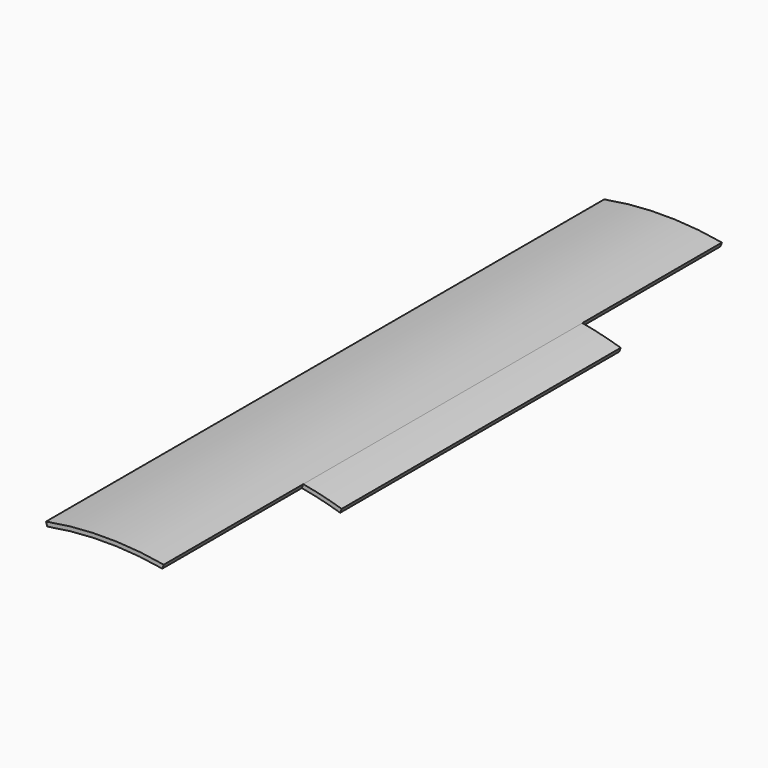
from build123d import *

# Parameters (mm, degrees)
F1_DEPTH = 250
F2_DEPTH = 125


with BuildPart() as f1:
    # F0 (on Front) → F1 (new body, symmetric)
    with BuildSketch(Plane.XZ):
        with BuildLine():
            Line((-14.503544, 3.604437), (-13.457058, 6.465255))
            ThreePointArc((-13.457058, 6.465255), (-55.63549, 10.165767), (-97.795863, 6.264893))
            Line((-97.795863, 6.264893), (-97.003544, 3.360226))
            ThreePointArc((-97.003544, 3.360226), (-55.764447, 7.165413), (-14.503544, 3.604437))
        make_face()
    extrude(amount=F1_DEPTH, both=True)

    # F0 (on Front) → F2 (join, symmetric)
    with BuildSketch(Plane.XZ):
        with BuildLine():
            Line((12.996456, -3.006309), (14.042942, -0.189243))
            ThreePointArc((14.042942, -0.189243), (0.392824, 3.550775), (-13.457058, 6.465255))
            Line((-13.457058, 6.465255), (-14.503544, 3.604437))
            ThreePointArc((-14.503544, 3.604437), (-0.653074, 0.717009), (12.996456, -3.006309))
        make_face()
    extrude(amount=F2_DEPTH, both=True)


solid = f1.part
